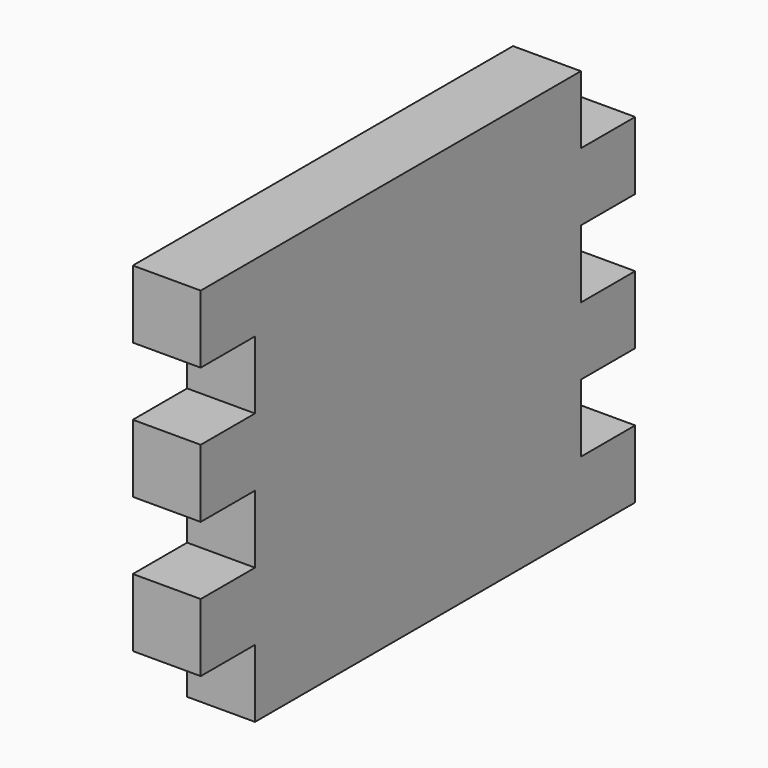
from build123d import *

# Parameters (mm, degrees)
F0_W      = 160
F0_H      = 120
F1_DEPTH  = 20
F2_W      = 20
F2_H      = 20
F3_DEPTH  = 20
F4_W      = 20
F4_H      = 20
F5_DEPTH  = 20
F6_W      = 20
F6_H      = 20
F7_DEPTH  = 20
F8_W      = 20
F8_H      = 20
F9_DEPTH  = 20
F10_W     = 20
F10_H     = 20
F11_DEPTH = 20
F12_W     = 20
F12_H     = 20
F13_DEPTH = 20


with BuildPart() as f1:
    # F0 (on Right) → F1 (new body)
    with BuildSketch(Plane.YZ):
        with Locations((-164.905177, 80.936906)):
            Rectangle(F0_W, F0_H)
    extrude(amount=F1_DEPTH)

    # F2 (on face) → F3 (cut)
    with BuildSketch(Plane.YZ.offset(20)):
        with Locations((-234.905177, 110.936906)):
            Rectangle(F2_W, F2_H)
    extrude(amount=-F3_DEPTH, mode=Mode.SUBTRACT)

    # F4 (on face) → F5 (cut)
    with BuildSketch(Plane.YZ.offset(20)):
        with Locations((-234.905177, 70.936906)):
            Rectangle(F4_W, F4_H)
    extrude(amount=-F5_DEPTH, mode=Mode.SUBTRACT)

    # F6 (on face) → F7 (cut)
    with BuildSketch(Plane.YZ.offset(20)):
        with Locations((-234.905177, 30.936906)):
            Rectangle(F6_W, F6_H)
    extrude(amount=-F7_DEPTH, mode=Mode.SUBTRACT)

    # F8 (on face) → F9 (cut)
    with BuildSketch(Plane.YZ.offset(20)):
        with Locations((-94.905177, 130.936906)):
            Rectangle(F8_W, F8_H)
    extrude(amount=-F9_DEPTH, mode=Mode.SUBTRACT)

    # F10 (on face) → F11 (cut)
    with BuildSketch(Plane.YZ.offset(20)):
        with Locations((-94.905177, 90.936906)):
            Rectangle(F10_W, F10_H)
    extrude(amount=-F11_DEPTH, mode=Mode.SUBTRACT)

    # F12 (on face) → F13 (cut)
    with BuildSketch(Plane.YZ.offset(20)):
        with Locations((-94.905177, 50.936906)):
            Rectangle(F12_W, F12_H)
    extrude(amount=-F13_DEPTH, mode=Mode.SUBTRACT)


solid = f1.part
